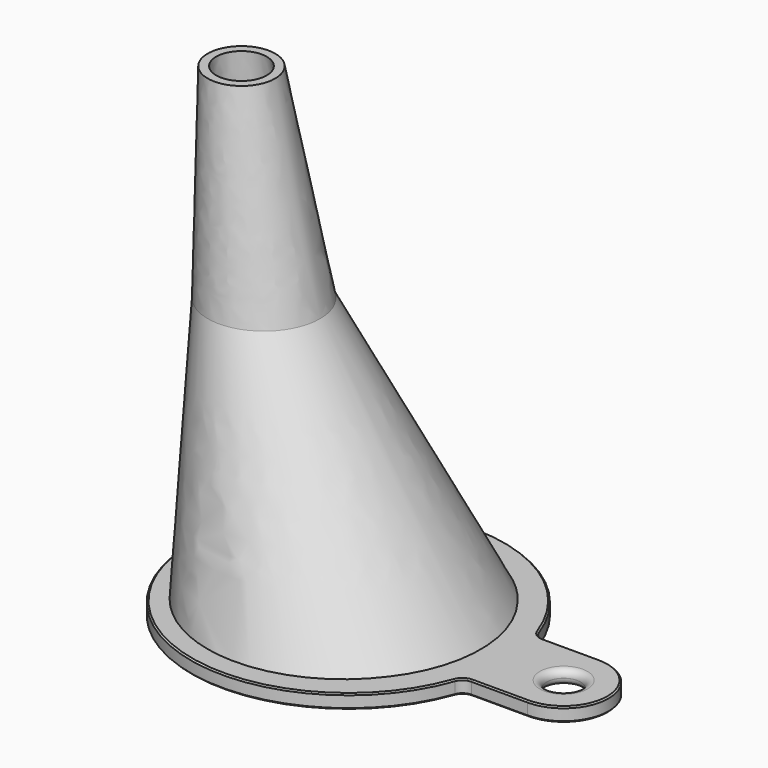
from build123d import *

# Parameters (mm, degrees)
SKETCH003_R     = 23.5
SKETCH004_R     = 8.5
SKETCH005_R     = 4.5
SKETCH_R        = 25
SKETCH001_R     = 10
SKETCH002_R     = 6
SKETCH006_R     = 23.5
SKETCH006_R_2   = 3
PAD_DEPTH       = 2.5
FILLET_R        = 1.24
CHAMFER_SIZE    = 0.25
CHAMFER001_SIZE = 0.25


with BuildPart() as funnel_inner:
    # Sketch003 → Loft001 section 0
    with BuildSketch(Plane.XY):
        with Locations((25, 0)):
            Circle(SKETCH003_R)
    # Sketch004 → Loft001 section 1
    with BuildSketch(Plane.XY.offset(45)):
        with Locations((10, 0)):
            Circle(SKETCH004_R)
    # Sketch005 → Loft001 section 2
    with BuildSketch(Plane.XY.offset(80)):
        with Locations((6, 0)):
            Circle(SKETCH005_R)
    loft(ruled=True)


with BuildPart() as brim_bottom_edge_chamfer:
    # Sketch → Loft section 0
    with BuildSketch(Plane.XY):
        with Locations((25, 0)):
            Circle(SKETCH_R)
    # Sketch001 → Loft section 1
    with BuildSketch(Plane.XY.offset(45)):
        with Locations((10, 0)):
            Circle(SKETCH001_R)
    # Sketch002 → Loft section 2
    with BuildSketch(Plane.XY.offset(80)):
        with Locations((6, 0)):
            Circle(SKETCH002_R)
    loft(ruled=True)

    # Cut: cut Funnel inner
    add(funnel_inner.part, mode=Mode.SUBTRACT)

    # Sketch006 → Pad (new body)
    with BuildSketch(Plane(origin=(0, 0, 0), x_dir=(1, 0, 0), z_dir=(0, 0, -1))):
        with BuildLine():
            ThreePointArc((51.398653, 9.333333), (-3, 0), (51.398653, -9.333333))
            ThreePointArc((53.284271, -8), (52.129571, -8.367007), (51.398653, -9.333333))
            Line((53.284271, -8), (63.284271, -8))
            ThreePointArc((63.284271, -8), (71.284271, 0), (63.284271, 8))
            Line((53.284271, 8), (63.284271, 8))
            ThreePointArc((51.398653, 9.333333), (52.129571, 8.367007), (53.284271, 8))
        make_face()
        with Locations((25, 0)):
            Circle(SKETCH006_R, mode=Mode.SUBTRACT)
        with Locations((63.284271, 0)):
            Circle(SKETCH006_R_2, mode=Mode.SUBTRACT)
    extrude(amount=-PAD_DEPTH)

    # Fillet
    fillet_edges = [brim_bottom_edge_chamfer.edges().sort_by_distance(p)[0] for p in [
        (60.284271, 0, 0),
        (60.284271, 0, 2.5),
    ]]
    fillet(fillet_edges, radius=FILLET_R)

    # Chamfer
    chamfer_edges = [brim_bottom_edge_chamfer.edges().sort_by_distance(p)[0] for p in [
        (58.284271, -8, 0),
    ]]
    chamfer(chamfer_edges, length=CHAMFER_SIZE)

    # Chamfer001
    chamfer001_edges = [brim_bottom_edge_chamfer.edges().sort_by_distance(p)[0] for p in [
        (-3, 0, 2.5),
    ]]
    chamfer(chamfer001_edges, length=CHAMFER001_SIZE)


solid = brim_bottom_edge_chamfer.part
